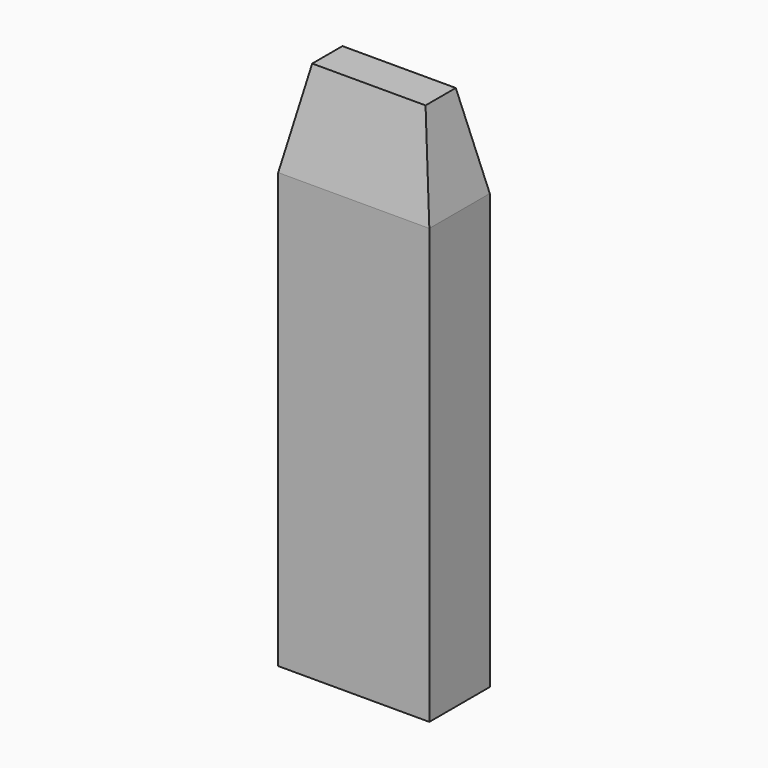
from build123d import *

# Parameters (mm, degrees)
F0_W     = 8
F0_H     = 4
F1_DEPTH = 28
F2_SIZE2 = 5
F2_SIZE  = 1


with BuildPart() as f1:
    # F0 (on Top) → F1 (new body)
    with BuildSketch(Plane.XY):
        with Locations((1.2190965936, 6.3532739603)):
            Rectangle(F0_W, F0_H)
    extrude(amount=F1_DEPTH)

    # F2
    f2_edges = [f1.edges().sort_by_distance(p)[0] for p in [
        (1.219097, 4.353274, 28),
        (1.219097, 8.353274, 28),
        (5.219097, 6.353274, 28),
        (-2.780903, 6.353274, 28),
    ]]
    f2_side = f1.faces().sort_by_distance((1.219097, 6.353274, 28))[0]
    chamfer(f2_edges, length=F2_SIZE, length2=F2_SIZE2, reference=f2_side)


solid = f1.part
